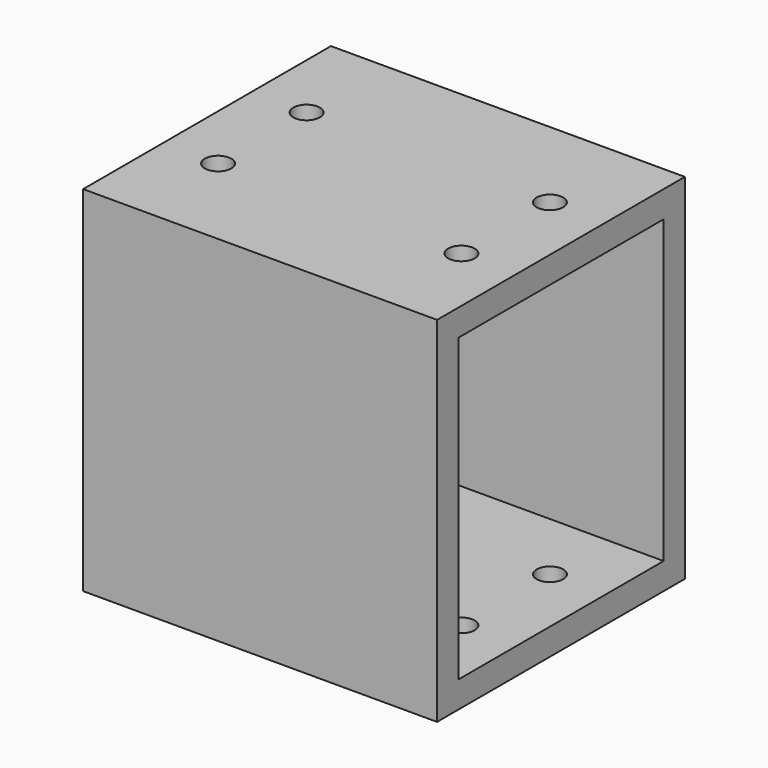
from build123d import *

# Parameters (mm, degrees)
F0_W     = 70
F0_H     = 80
F0_W_2   = 58
F0_H_2   = 68
F1_DEPTH = 80
F3_D     = 6


with BuildPart() as f1:
    # F0 (on Right) → F1 (new body)
    with BuildSketch(Plane.YZ):
        with Locations((-35, 40)):
            Rectangle(F0_W, F0_H)
        with Locations((-35, 40)):
            Rectangle(F0_W_2, F0_H_2, mode=Mode.SUBTRACT)
    extrude(amount=F1_DEPTH)

    # F3 (through all)
    with Locations(Plane.XY.offset(80)):
        with Locations((12.5, -22.5), (67.5, -22.5), (67.5, -47.5), (12.5, -47.5)):
            Hole(F3_D / 2)


solid = f1.part
